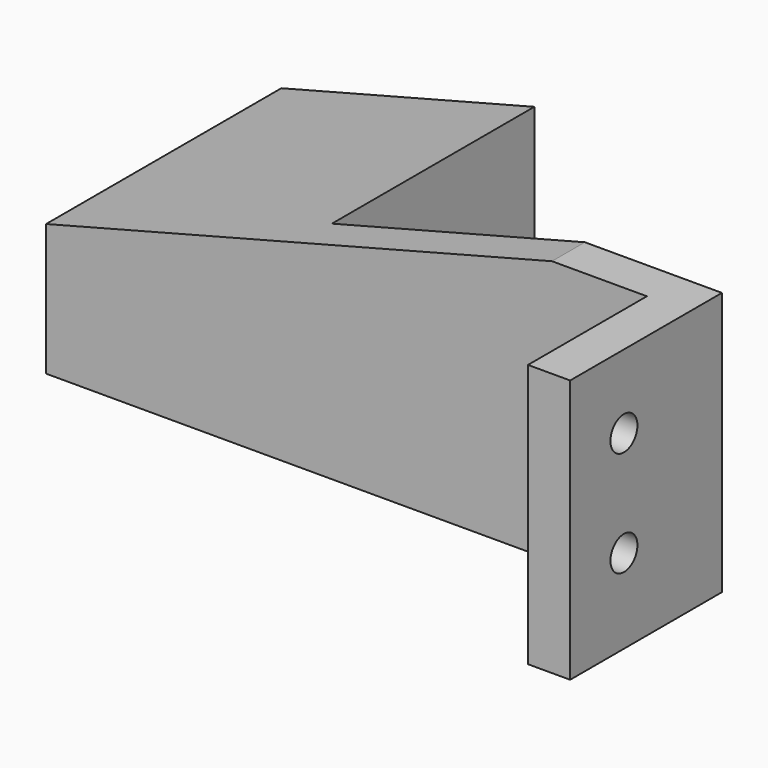
from build123d import *

# Parameters (mm, degrees)
SKETCH017_W     = 18
SKETCH017_H     = 25
SKETCH017_R     = 1.6
PAD012_DEPTH    = 4
SKETCH018_W     = 3.9
SKETCH018_H     = 25
PAD013_DEPTH    = 57
POCKET009_DEPTH = 5
PAD014_DEPTH    = 24


with BuildPart() as part:
    # Sketch017 → Pad012 (new body)
    with BuildSketch(Plane.YZ):
        with Locations((31, 12.5)):
            Rectangle(SKETCH017_W, SKETCH017_H)
        with Locations((28.38, 8)):
            Circle(SKETCH017_R, mode=Mode.SUBTRACT)
        with Locations((28.38, 18)):
            Circle(SKETCH017_R, mode=Mode.SUBTRACT)
    extrude(amount=PAD012_DEPTH)

    # Sketch018 (on Face7 of Pad012) → Pad013 (join)
    with BuildSketch(Plane(origin=(0, 0, 0), x_dir=(0, 1, 0), z_dir=(-1, 0, 0))):
        with Locations((38.05, -12.5)):
            Rectangle(SKETCH018_W, SKETCH018_H)
    extrude(amount=PAD013_DEPTH)

    # Sketch019 (on Face10 of Pad013) → Pocket009 (cut)
    with BuildSketch(Plane.ZX.offset(40)):
        Polygon((25, -9), (12.5, -57), (25, -57), align=None)
    extrude(amount=-POCKET009_DEPTH, mode=Mode.SUBTRACT)

    # Sketch020 (on Face6 of Pocket009) → Pad014 (join)
    with BuildSketch(Plane.ZX.offset(40)):
        Polygon((0, -57), (12.5, -57), (18.75, -33), (0, -33), align=None)
    extrude(amount=PAD014_DEPTH)


with BuildPart() as part_1:
    # Body002 placement: moved
    add(part.part.moved(Location((50, 0, 0))))


solid = part_1.part
